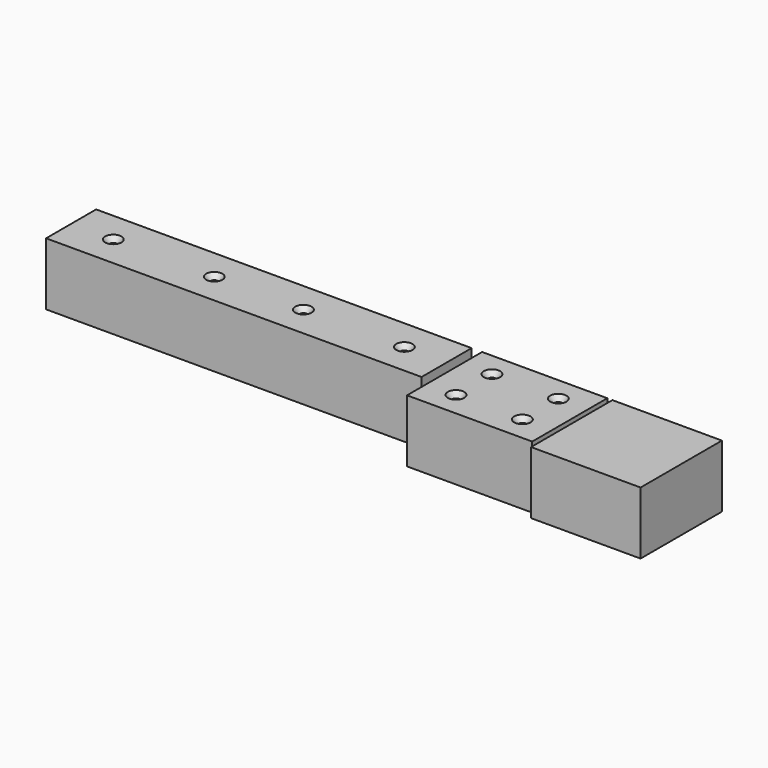
from build123d import *

# Parameters (mm, degrees)
F0_W             = 240
F0_H             = 40
F1_DEPTH         = 40
F0_W_2           = 80
F0_H_2           = 60
F0_W_3           = 70
F0_H_3           = 65
F3_D             = 4.9149
F3_CSINK_D       = 10.4394
F3_CSINK_ANGLE   = 82
F3_2_D           = 4.9149
F3_2_CSINK_D     = 10.4394
F3_2_CSINK_ANGLE = 82


with BuildPart() as f1:
    # F0 (on Top) → F1 (new body)
    with BuildSketch(Plane.XY):
        with Locations((-80, 12.5)):
            Rectangle(F0_W, F0_H)
    extrude(amount=F1_DEPTH)

    # F3 (through all)
    with Locations(Plane.XY.offset(40)):
        with Locations((65.5245407671, 16.8644282967), (107.9311296344, 16.8644282967), (107.9311296344, -11.8644282967), (65.5245407671, -11.8644282967), (-51.5163959959, 12.5), (13.03404212, 12.5), (-108.4836040041, 12.5), (-173.03404212, 12.5)):
            CounterSinkHole(F3_D / 2, F3_CSINK_D / 2, counter_sink_angle=F3_CSINK_ANGLE)


with BuildPart() as f1b:
    # F0 (on Top) → F1, piece 2 (new body)
    with BuildSketch(Plane.XY):
        with Locations((86.7278352007, 2.5)):
            Rectangle(F0_W_2, F0_H_2)
    extrude(amount=F1_DEPTH)

    # F3#2 (through all)
    with Locations(Plane.XY.offset(40)):
        with Locations((65.5245407671, 16.8644282967), (107.9311296344, 16.8644282967), (107.9311296344, -11.8644282967), (65.5245407671, -11.8644282967), (-51.5163959959, 12.5), (13.03404212, 12.5), (-108.4836040041, 12.5), (-173.03404212, 12.5)):
            CounterSinkHole(F3_2_D / 2, F3_2_CSINK_D / 2, counter_sink_angle=F3_2_CSINK_ANGLE)


with BuildPart() as f1c:
    # F0 (on Top) → F1, piece 3 (new body)
    with BuildSketch(Plane.XY):
        with Locations((165, 0)):
            Rectangle(F0_W_3, F0_H_3)
    extrude(amount=F1_DEPTH)


solid = Compound([f1.part, f1b.part, f1c.part])
